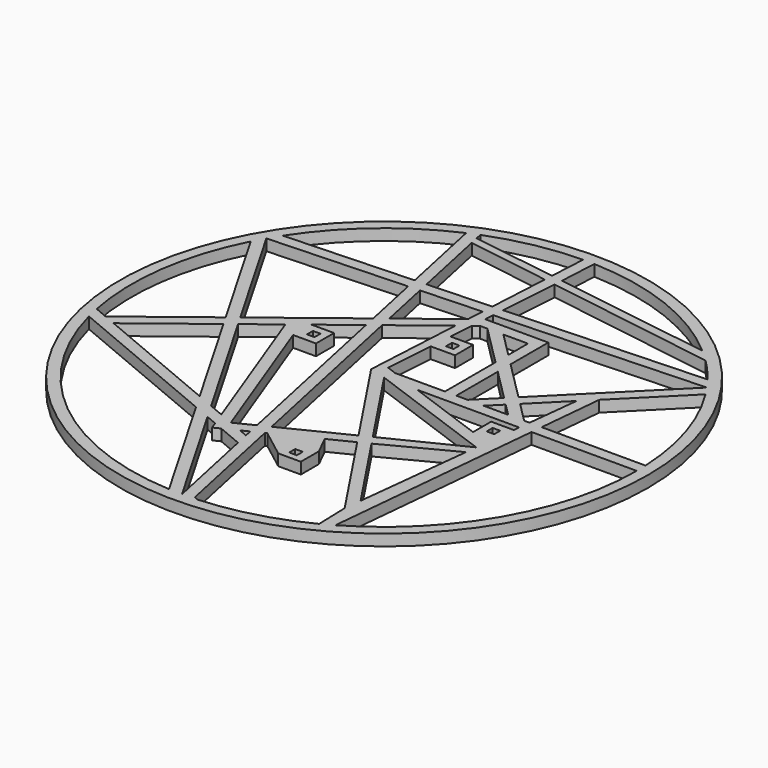
from build123d import *

# Parameters (mm, degrees)
F0_R     = 70
F0_W     = 2
F0_H     = 2
F1_DEPTH = 3


with BuildPart() as f1:
    # F0 (on Top) → F1 (new body)
    with BuildSketch(Plane.XY):
        Circle(F0_R)
        with BuildLine():
            Line((-64.872471, -16.75), (-22.119673, -34.687602))
            Line((-22.119673, -34.687602), (-3.517446, -66.907605))
            ThreePointArc((-3.517446, -66.907605), (-42.405678, -51.872521), (-64.872471, -16.75))
        make_face(mode=Mode.SUBTRACT)
        Polygon((-5.367487, -41.716243), (0, -67), (-17.548193, -36.605638), (-14.51137, -37.879784), (-13.802188, -39.778319), (-12.051845, -38.911716), align=None, mode=Mode.SUBTRACT)
        Polygon((-6.541978, -36.183757), (-6.125672, -38.144779), (-8.494983, -37.150698), align=None, mode=Mode.SUBTRACT)
        Polygon((-24.598448, -30.394239), (-58.970352, -15.972971), (-40.973159, -2.032406), align=None, mode=Mode.SUBTRACT)
        Polygon((-38.579524, -0.178304), (-30.835223, 5.820406), (-15.952495, -34.021783), (-20.026968, -32.312274), align=None, mode=Mode.SUBTRACT)
        Polygon((-12.154838, -35.615149), (-26.627104, 3.128202), (-20.564876, 3.128202), (-20.564876, 9.128202), (-26.564876, 9.128202), (-17.630423, 16.0488), (-7.185041, -33.154581), align=None, mode=Mode.SUBTRACT)
        Polygon((-4.438957, 1.256214), (12.101127, -23.605912), (-4.409872, -31.780582), (-14.996661, 18.088903), (-3.002486, 27.379551), align=None, mode=Mode.SUBTRACT)
        with BuildLine():
            Line((13.762816, -26.10367), (30.228223, -50.853546))
            Line((30.228223, -50.853546), (30.5, -59.65526))
            ThreePointArc((30.5, -59.65526), (17.615943, -64.642699), (3.982851, -66.881514))
            Line((3.982851, -66.881514), (2.934602, -66.377014))
            Line((2.934602, -66.377014), (-3.756953, -34.856183))
            Line((-3.756953, -34.856183), (-3.267222, -34.611524))
            Line((-3.267222, -34.611524), (4.122172, -40.248352))
            Line((4.122172, -40.248352), (10.122172, -40.248352))
            Line((10.122172, -40.248352), (10.122172, -34.248352))
            Line((10.122172, -34.248352), (7.593094, -29.185935))
            Line((7.593094, -29.185935), (13.762816, -26.10367))
        make_face(mode=Mode.SUBTRACT)
        with Locations((6.658501, -37.52363)):
            Rectangle(F0_W, F0_H, mode=Mode.SUBTRACT)
        Polygon((34.131849, -15.534241), (30.741558, -46.208985), (16.473278, -24.761707), align=None, mode=Mode.SUBTRACT)
        Polygon((0, 0), (34.46342, -12.534241), (14.811589, -22.26395), align=None, mode=Mode.SUBTRACT)
        Polygon((29.671986, -1.599358), (29.671986, -7.599358), (8.777233, 0), (35.848753, 0), (35.671986, -1.599358), align=None, mode=Mode.SUBTRACT)
        with Locations((32.671986, -4.599358)):
            Rectangle(F0_W, F0_H, mode=Mode.SUBTRACT)
        with BuildLine():
            Line((39.09744, 0), (67, 0))
            ThreePointArc((67, 0), (58.023702, -33.5), (33.5, -58.023702))
            Line((33.5, -58.023702), (39.09744, 0))
        make_face(mode=Mode.SUBTRACT)
        with BuildLine():
            Line((-42.487027, 0.58969), (-62.148088, -14.639702))
            Line((-62.148088, -14.639702), (-65.696695, -13.150829))
            ThreePointArc((-65.696695, -13.150829), (-66.374453, 9.134109), (-59.702408, 30.407605))
            Line((-59.702408, 30.407605), (-42.487027, 0.58969))
        make_face(mode=Mode.SUBTRACT)
        Polygon((-40.093392, 2.443792), (-58.023702, 33.5), (-21.659897, 35.029796), (-18.322244, 19.307651), align=None, mode=Mode.SUBTRACT)
        with Locations((-23.564876, 6.128202)):
            Rectangle(F0_W, F0_H, mode=Mode.SUBTRACT)
        Polygon((-18.620189, 35.157674), (-2.537579, 35.834256), (-2.784538, 31.343106), (-15.688482, 21.347754), align=None, mode=Mode.SUBTRACT)
        with BuildLine():
            ThreePointArc((-56.131438, 36.58226), (-43.458519, 50.993697), (-27.22012, 61.221443))
            Line((-27.22012, 61.221443), (-22.291688, 38.00587))
            Line((-22.291688, 38.00587), (-56.131438, 36.58226))
        make_face(mode=Mode.SUBTRACT)
        Polygon((-19.251979, 38.133748), (-23.584773, 58.543545), (-1.477635, 55.110162), (-2.372086, 38.843872), align=None, mode=Mode.SUBTRACT)
        with BuildLine():
            Line((-1.354779, 57.344402), (-24.052467, 60.746633))
            Line((-24.052467, 60.746633), (-24.403006, 62.397863))
            ThreePointArc((-24.403006, 62.397863), (-12.821278, 65.761804), (-0.824116, 66.994931))
            Line((-0.824116, 66.994931), (-1.354779, 57.344402))
        make_face(mode=Mode.SUBTRACT)
        Polygon((-0.289354, 29.481134), (1.025996, 30.5), (3, 30.5), (13.75, 19.75), (13.75, 3), (0.528608, 3), (-2.126445, 3.965635), (-1.191021, 16.957822), (5.240974, 16.957822), (5.240974, 22.957822), (-0.759026, 22.957822), align=None, mode=Mode.SUBTRACT)
        Polygon((27.24632, 6.25368), (30.5, 3), (23.992641, 3), align=None, mode=Mode.SUBTRACT)
        Polygon((25.125, 8.375), (19.75, 3), (16.75, 3), (16.75, 16.75), align=None, mode=Mode.SUBTRACT)
        Polygon((36.180325, 3), (34.742641, 3), (29.367641, 8.375), (37.694733, 16.702092), align=None, mode=Mode.SUBTRACT)
        with Locations((2.240974, 19.957822)):
            Rectangle(F0_W, F0_H, mode=Mode.SUBTRACT)
        Polygon((7.242641, 30.5), (13.75, 30.5), (13.75, 23.992641), align=None, mode=Mode.SUBTRACT)
        Polygon((16.75, 33.5), (0, 33.5), (0.176284, 35.948426), (55.005027, 38.255027), (27.24632, 10.49632), (16.75, 20.992641), align=None, mode=Mode.SUBTRACT)
        with BuildLine():
            ThreePointArc((56.6951, 35.70246), (63.940029, 20.016811), (66.932802, 3))
            Line((66.932802, 3), (39.386844, 3))
            Line((39.386844, 3), (41.03045, 20.03781))
            Line((41.03045, 20.03781), (56.6951, 35.70246))
        make_face(mode=Mode.SUBTRACT)
        with BuildLine():
            ThreePointArc((47.201731, 47.549938), (50.132824, 44.448847), (52.86057, 41.167465))
            Line((52.86057, 41.167465), (0.393129, 38.960202))
            Line((0.393129, 38.960202), (1.522365, 54.644242))
            Line((1.522365, 54.644242), (47.201731, 47.549938))
        make_face(mode=Mode.SUBTRACT)
        with BuildLine():
            Line((43.973899, 50.549938), (1.645221, 56.894722))
            Line((1.645221, 56.894722), (2.175884, 66.964659))
            ThreePointArc((2.175884, 66.964659), (24.491047, 62.363359), (43.973899, 50.549938))
        make_face(mode=Mode.SUBTRACT)
    extrude(amount=F1_DEPTH)


solid = f1.part
